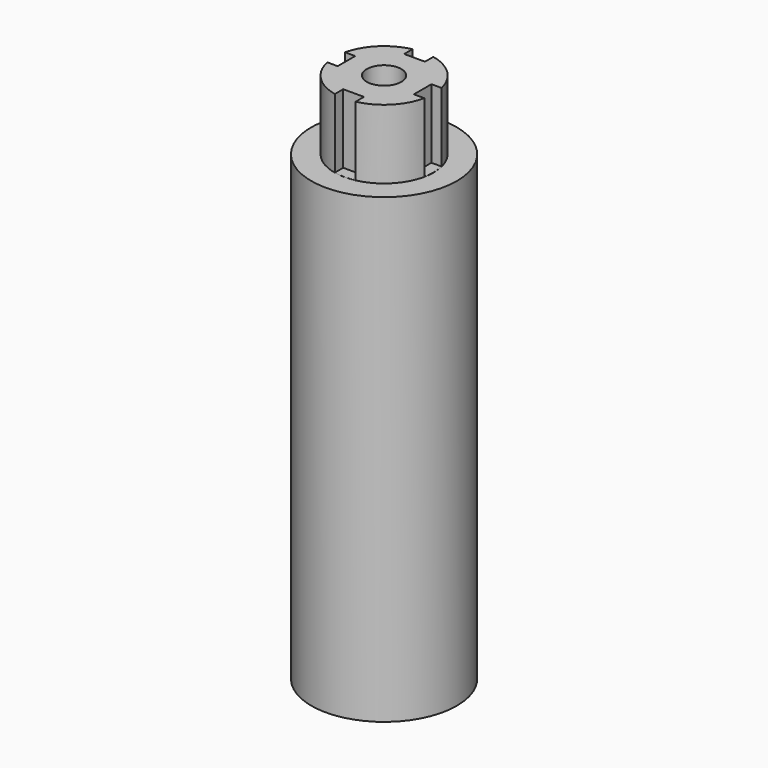
from build123d import *

# Parameters (mm, degrees)
SKETCH_R        = 6.3
PAD_DEPTH       = 40
SKETCH001_R     = 4.3
PAD001_DEPTH    = 6
SKETCH002_W     = 1.8
SKETCH002_H     = 1.7
SKETCH002_W_2   = 1.4
SKETCH002_H_2   = 1.9
SKETCH002_W_3   = 1.7
POCKET_DEPTH    = 5.99
SKETCH003_R     = 4.5
POCKET001_DEPTH = 7
SKETCH004_W     = 1.3
SKETCH004_H     = 1.5
SKETCH004_W_2   = 1.5
SKETCH004_H_2   = 1.3
PAD002_DEPTH    = 7
SKETCH005_R     = 1.5
POCKET002_DEPTH = 50


with BuildPart() as part:
    # Sketch → Pad (new body)
    with BuildSketch(Plane.XY):
        with Locations((7, 7)):
            Circle(SKETCH_R)
    extrude(amount=PAD_DEPTH)

    # Sketch001 (on Face3 of Pad) → Pad001 (join)
    with BuildSketch(Plane.XY.offset(40)):
        with Locations((7, 7)):
            Circle(SKETCH001_R)
    extrude(amount=PAD001_DEPTH)

    # Sketch002 (on Face5 of Pad001) → Pocket (cut)
    with BuildSketch(Plane.XY.offset(46)):
        with Locations((7, 11.15)):
            Rectangle(SKETCH002_W, SKETCH002_H)
        with Locations((7, 2.85)):
            Rectangle(SKETCH002_W, SKETCH002_H)
        with Locations((3, 7.05)):
            Rectangle(SKETCH002_W_2, SKETCH002_H_2)
        with Locations((11.15, 7.05)):
            Rectangle(SKETCH002_W_3, SKETCH002_H_2)
    extrude(amount=-POCKET_DEPTH, mode=Mode.SUBTRACT)

    # Sketch003 (on Face2 of Pocket) → Pocket001 (cut)
    with BuildSketch(Plane(origin=(0, 0, 0), x_dir=(1, 0, 0), z_dir=(0, 0, -1))):
        with Locations((7, -7)):
            Circle(SKETCH003_R)
    extrude(amount=-POCKET001_DEPTH, mode=Mode.SUBTRACT)

    # Sketch004 (on Face6 of Pocket001) → Pad002 (join)
    with BuildSketch(Plane(origin=(0, 0, 7), x_dir=(1, 0, 0), z_dir=(0, 0, -1))):
        with Locations((7, -2.9)):
            Rectangle(SKETCH004_W, SKETCH004_H)
        with Locations((7, -11.1)):
            Rectangle(SKETCH004_W, SKETCH004_H)
        with Locations((11.1, -7)):
            Rectangle(SKETCH004_W_2, SKETCH004_H_2)
        with Locations((2.9, -7)):
            Rectangle(SKETCH004_W_2, SKETCH004_H_2)
    extrude(amount=PAD002_DEPTH)

    # Sketch005 (on Face28 of Pad002) → Pocket002 (cut)
    with BuildSketch(Plane.XY.offset(46)):
        with Locations((7, 7)):
            Circle(SKETCH005_R)
    extrude(amount=-POCKET002_DEPTH, mode=Mode.SUBTRACT)


solid = part.part
